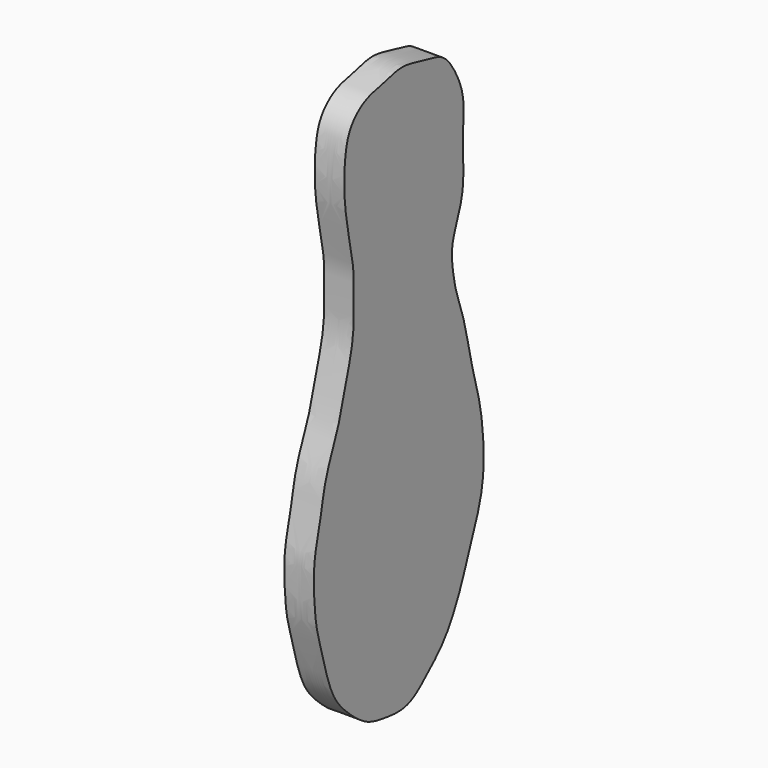
from build123d import *

# Parameters (mm, degrees)
F1_DEPTH = 12.7


with BuildPart() as f1:
    # F0 (on Right) → F1 (new body)
    with BuildSketch(Plane.YZ):
        with BuildLine():
            add(Edge.make_bspline(
                [(-32.1624837816, 108.1180423498), (-35.356653465, 106.7044890496), (-41.4061130565, 101.8100124084), (-43.7126907156, 91.2545885907), (-44.2141657225, 81.0844883628), (-43.6974589551, 71.1205059544), (-40.9368863897, 56.7740475017), (-38.586225175, 45.1507612362), (-39.2251563317, 34.9668876086), (-38.7577548559, 25.4877708415), (-40.0290334753, 16.2085777725), (-42.8215243212, 6.7269840888), (-44.7122012288, 0.0630196298), (-46.9615064928, -9.226971801), (-51.0620064937, -18.0979024752), (-55.0853294544, -29.6842555873), (-56.274351124, -38.8014823871), (-60.2506924887, -53.59383493), (-60.5105325648, -64.2588544285), (-59.5506947306, -79.811039331), (-56.4969273727, -89.427883155), (-53.6343743849, -100.9276486285), (-49.6384345434, -111.9259454677), (-42.4594554347, -119.7219923408), (-32.4455845041, -128.074808504), (-22.9243588151, -129.684304529), (-9.6587751493, -131.4812013699), (0.0199016653, -122.6934491817), (7.5492873943, -116.1321118505), (13.8426533747, -107.3548603401), (19.4626932027, -94.982883216), (22.7220839715, -85.0702369662), (31.5178587414, -64.6861656953), (30.6691712906, -44.1458949916), (28.9055491857, -30.7254947506), (24.5387378007, -16.6370439434), (21.2632857233, -0.1708381549), (18.6675574105, 8.5057283933), (15.756866901, 16.101294818), (13.9450703126, 25.6215989643), (13.2399913548, 35.0280502418), (18.3340624326, 46.1533485237), (20.1443081498, 55.421557246), (19.7326309527, 66.2997341229), (19.5554663019, 76.2107686486), (20.7585694424, 87.6802520783), (15.9465850778, 99.3976171314), (9.1125937444, 108.6788749313), (-0.0937121196, 109.5946992708), (-12.8189332024, 113.8349218856), (-22.6493747433, 110.2743043136), (-29.1127434009, 109.46767966), (-32.1624837816, 108.1180423498)],
                knots=[0, 0, 0, 0, 0.0194086973, 0.0386650257, 0.0574963201, 0.0763276146, 0.0990522061, 0.1196797425, 0.1384926918, 0.1567082539, 0.1750042379, 0.1935353364, 0.209279831, 0.2273461483, 0.2462502972, 0.2667370219, 0.2851320679, 0.3079498976, 0.3279194184, 0.3510003882, 0.3701006407, 0.3904290382, 0.4105953417, 0.4300040342, 0.4510375482, 0.469568655, 0.4906021694, 0.5115037595, 0.5303073382, 0.5498156628, 0.5713808105, 0.5908228849, 0.6185620489, 0.645586288, 0.6672483625, 0.6901786255, 0.7145633869, 0.7323894871, 0.7491168283, 0.7675118738, 0.7857274359, 0.8062141592, 0.8246092045, 0.8440011518, 0.8628141011, 0.8827682463, 0.9039320124, 0.9233407126, 0.9410471139, 0.9624927375, 0.9814688968, 1, 1, 1, 1], degree=3))
        make_face()
    extrude(amount=F1_DEPTH)


solid = f1.part
